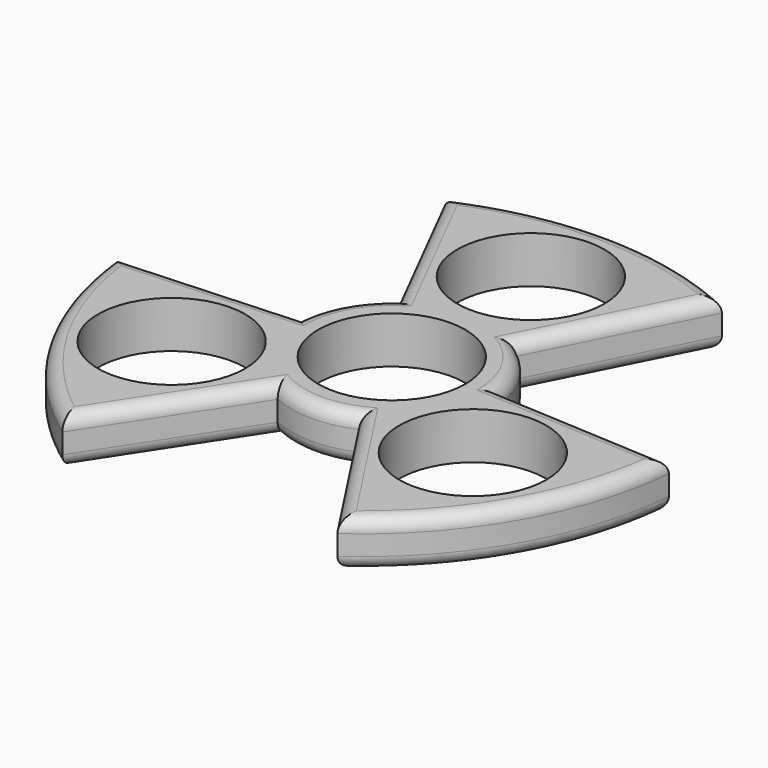
from build123d import *

# Parameters (mm, degrees)
F0_R     = 11
F1_DEPTH = 7
F2_R     = 2


with BuildPart() as f1:
    # F0 (on Top) → F1 (new body)
    with BuildSketch(Plane.XY):
        with BuildLine():
            Line((-20.5688137101, -35.8657114123), (-6.0947750549, -13.7059737717))
            ThreePointArc((-6.0947750549, -13.7059737717), (0, -15), (6.0947750549, -13.7059737717))
            Line((6.0947750549, -13.7059737717), (20.5688137101, -35.8657114123))
            ThreePointArc((20.5688137101, -35.8657114123), (34.8857895537, -20.1413199897), (41.3450240629, 0.1197405075))
            Line((41.3450240629, 0.1197405075), (14.9171089973, 1.5747568579))
            ThreePointArc((14.9171089973, 1.5747568579), (12.9903810568, 7.5), (8.8223339424, 12.1312169138))
            Line((8.8223339424, 12.1312169138), (20.7762103528, 35.7459709048))
            ThreePointArc((20.7762103528, 35.7459709048), (0, 40.2826399794), (-20.7762103528, 35.7459709048))
            Line((-20.7762103528, 35.7459709048), (-8.8223339424, 12.1312169138))
            ThreePointArc((-8.8223339424, 12.1312169138), (-12.9903810568, 7.5), (-14.9171089973, 1.5747568579))
            Line((-14.9171089973, 1.5747568579), (-41.3450240629, 0.1197405075))
            ThreePointArc((-41.3450240629, 0.1197405075), (-34.8857895537, -20.1413199897), (-20.5688137101, -35.8657114123))
        make_face()
        with Locations((-22.5166604984, -13)):
            Circle(F0_R, mode=Mode.SUBTRACT)
        Circle(F0_R, mode=Mode.SUBTRACT)
        with Locations((22.5166604984, -13)):
            Circle(F0_R, mode=Mode.SUBTRACT)
        with Locations((0, 26)):
            Circle(F0_R, mode=Mode.SUBTRACT)
    extrude(amount=F1_DEPTH)

    # F2
    f2_edges = [f1.edges().sort_by_distance(p)[0] for p in [
        (-12.990381, 7.5, 7),
        (-14.799272, 23.938594, 7),
        (0, 40.28264, 7),
        (14.799272, 23.938594, 7),
        (12.990381, 7.5, 7),
        (28.131067, 0.847249, 7),
        (34.88579, -20.14132, 7),
        (13.331794, -24.785843, 7),
        (0, -15, 7),
        (-13.331794, -24.785843, 7),
        (-34.88579, -20.14132, 7),
        (-28.131067, 0.847249, 7),
        (0, 40.28264, 0),
        (-14.799272, 23.938594, 0),
        (14.799272, 23.938594, 0),
        (12.990381, 7.5, 0),
        (28.131067, 0.847249, 0),
        (13.331794, -24.785843, 0),
        (34.88579, -20.14132, 0),
        (-13.331794, -24.785843, 0),
        (0, -15, 0),
        (-34.88579, -20.14132, 0),
        (-28.131067, 0.847249, 0),
        (-12.990381, 7.5, 0),
    ]]
    fillet(f2_edges, radius=F2_R)


solid = f1.part
